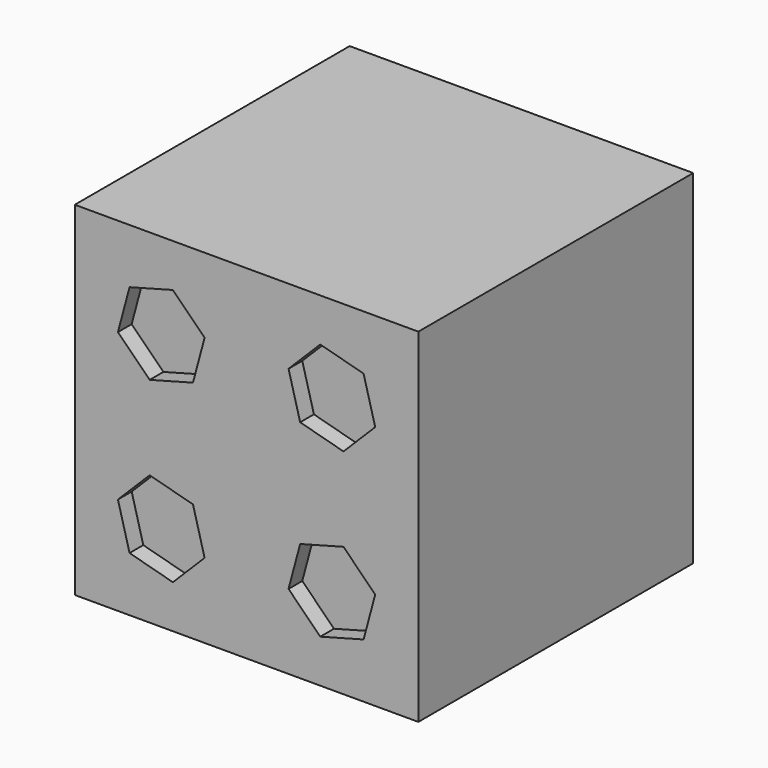
from build123d import *

# Parameters (mm, degrees)
F0_W     = 50.8
F0_H     = 50.8
F1_DEPTH = 50.8
F3_DEPTH = 2.54


with BuildPart() as f1:
    # F0 (on Front) → F1 (new body)
    with BuildSketch(Plane.XZ):
        with Locations((25.4, 25.4)):
            Rectangle(F0_W, F0_H)
    extrude(amount=F1_DEPTH)

    # F2 (on face) → F3 (cut)
    with BuildSketch(Plane.XZ.offset(50.8)):
        Polygon((19.194489, 39.729136), (14.504312, 44.419312), (8.097411, 42.702589), (6.380688, 36.295688), (11.070864, 31.605511), (17.477765, 33.322235), align=None)
        Polygon((44.419312, 36.295688), (42.702589, 42.702589), (36.295688, 44.419312), (31.605511, 39.729136), (33.322235, 33.322235), (39.729136, 31.605511), align=None)
        Polygon((14.504312, 6.380688), (19.194489, 11.070864), (17.477765, 17.477765), (11.070864, 19.194489), (6.380688, 14.504312), (8.097411, 8.097411), align=None)
        Polygon((33.322235, 17.477765), (31.605511, 11.070864), (36.295688, 6.380688), (42.702589, 8.097411), (44.419312, 14.504312), (39.729136, 19.194489), align=None)
    extrude(amount=-F3_DEPTH, mode=Mode.SUBTRACT)


solid = f1.part
